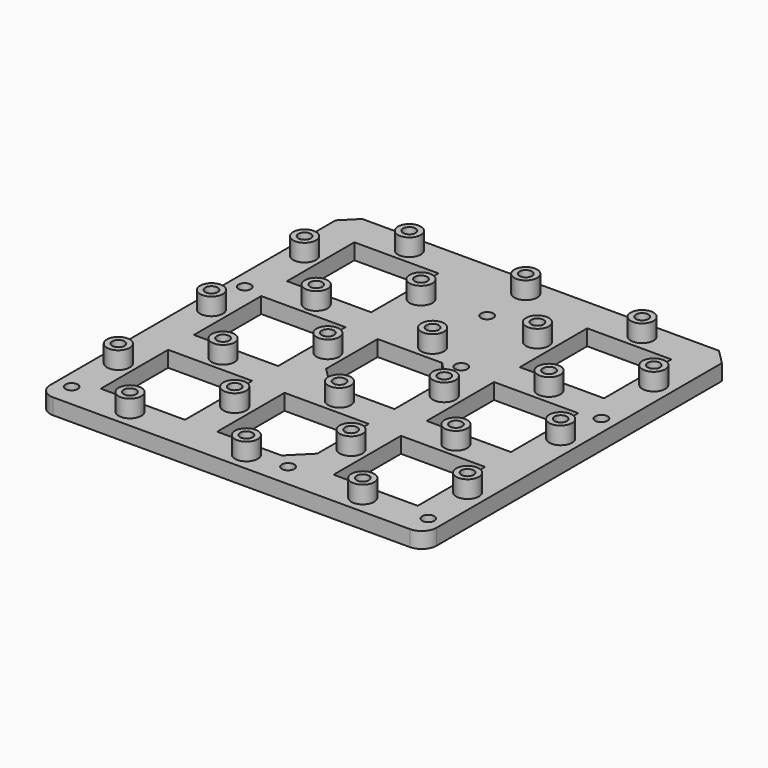
from build123d import *

# Parameters (mm, degrees)
F1_W     = 78
F1_H     = 78
F1_R     = 2.3
F1_R_2   = 1.25
F2_DEPTH = 1.6
F3_W     = 17
F3_H     = 17
F3_R     = 2.3
F3_R_2   = 1.25
F4_DEPTH = 5.1
F5_DEPTH = 10
F6_SIZE  = 3
F7_R     = 3
F8_SIZE  = 4
F9_DEPTH = 12.5


with BuildPart() as f2:
    # F1 (on Top) → F2 (new body, symmetric)
    with BuildSketch(Plane.XY):
        Rectangle(F1_W, F1_H)
        with Locations((-36, -34.35)):
            Circle(F1_R, mode=Mode.SUBTRACT)
        with Locations((7.7, -34.35)):
            Circle(F1_R, mode=Mode.SUBTRACT)
        with Locations((36, -34.35)):
            Circle(F1_R, mode=Mode.SUBTRACT)
        with Locations((-36, 9.35)):
            Circle(F1_R, mode=Mode.SUBTRACT)
        with Locations((7.7, 9.35)):
            Circle(F1_R, mode=Mode.SUBTRACT)
        with Locations((36, 9.35)):
            Circle(F1_R, mode=Mode.SUBTRACT)
        with Locations((0, 25.5)):
            Circle(F1_R_2, mode=Mode.SUBTRACT)
        with Locations((-36, 9.35)):
            Circle(F1_R)
        with Locations((-36, 9.35)):
            Circle(F1_R_2, mode=Mode.SUBTRACT)
        with Locations((36, 9.35)):
            Circle(F1_R)
        with Locations((36, 9.35)):
            Circle(F1_R_2, mode=Mode.SUBTRACT)
        with Locations((36, -34.35)):
            Circle(F1_R)
        with Locations((36, -34.35)):
            Circle(F1_R_2, mode=Mode.SUBTRACT)
        with Locations((-36, -34.35)):
            Circle(F1_R)
        with Locations((-36, -34.35)):
            Circle(F1_R_2, mode=Mode.SUBTRACT)
        with Locations((7.7, 9.35)):
            Circle(F1_R)
        with Locations((7.7, 9.35)):
            Circle(F1_R_2, mode=Mode.SUBTRACT)
        with Locations((7.7, -34.35)):
            Circle(F1_R)
        with Locations((7.7, -34.35)):
            Circle(F1_R_2, mode=Mode.SUBTRACT)
        with Locations((-36, 9.35)):
            Circle(F1_R_2)
        with Locations((7.7, 9.35)):
            Circle(F1_R_2)
        with Locations((36, 9.35)):
            Circle(F1_R_2)
        with Locations((-36, -34.35)):
            Circle(F1_R_2)
        with Locations((7.7, -34.35)):
            Circle(F1_R_2)
        with Locations((36, -34.35)):
            Circle(F1_R_2)
    extrude(amount=F2_DEPTH, both=True)

    # F3 (on Top) → F4 (join)
    with BuildSketch(Plane.XY):
        Rectangle(F3_W, F3_H)
        with Locations((-23.5, 0)):
            Rectangle(F3_W, F3_H)
        with Locations((23.5, 0)):
            Rectangle(F3_W, F3_H)
        with Locations((23.5, 23.5)):
            Rectangle(F3_W, F3_H)
        with Locations((-23.5, -23.5)):
            Rectangle(F3_W, F3_H)
        with Locations((0, -23.5)):
            Rectangle(F3_W, F3_H)
        with Locations((23.5, -23.5)):
            Rectangle(F3_W, F3_H)
        with Locations((-23.5, 23.5)):
            Rectangle(F3_W, F3_H)
        with Locations((-11.75, 0)):
            Circle(F3_R)
        with Locations((-11.75, 0)):
            Circle(F3_R_2, mode=Mode.SUBTRACT)
        with Locations((0, 11.75)):
            Circle(F3_R)
        with Locations((0, 11.75)):
            Circle(F3_R_2, mode=Mode.SUBTRACT)
        with Locations((11.75, 0)):
            Circle(F3_R)
        with Locations((11.75, 0)):
            Circle(F3_R_2, mode=Mode.SUBTRACT)
        with Locations((0, -11.75)):
            Circle(F3_R)
        with Locations((0, -11.75)):
            Circle(F3_R_2, mode=Mode.SUBTRACT)
        with Locations((-11.75, -23.5)):
            Circle(F3_R)
        with Locations((-11.75, -23.5)):
            Circle(F3_R_2, mode=Mode.SUBTRACT)
        with Locations((-35.25, -23.5)):
            Circle(F3_R)
        with Locations((-35.25, -23.5)):
            Circle(F3_R_2, mode=Mode.SUBTRACT)
        with Locations((11.75, -23.5)):
            Circle(F3_R)
        with Locations((11.75, -23.5)):
            Circle(F3_R_2, mode=Mode.SUBTRACT)
        with Locations((35.25, -23.5)):
            Circle(F3_R)
        with Locations((35.25, -23.5)):
            Circle(F3_R_2, mode=Mode.SUBTRACT)
        with Locations((35.25, 0)):
            Circle(F3_R)
        with Locations((35.25, 0)):
            Circle(F3_R_2, mode=Mode.SUBTRACT)
        with Locations((23.5, -11.75)):
            Circle(F3_R)
        with Locations((23.5, -11.75)):
            Circle(F3_R_2, mode=Mode.SUBTRACT)
        with Locations((-23.5, -11.75)):
            Circle(F3_R)
        with Locations((-23.5, -11.75)):
            Circle(F3_R_2, mode=Mode.SUBTRACT)
        with Locations((-35.25, 0)):
            Circle(F3_R)
        with Locations((-35.25, 0)):
            Circle(F3_R_2, mode=Mode.SUBTRACT)
        with Locations((-35.25, 23.5)):
            Circle(F3_R)
        with Locations((-35.25, 23.5)):
            Circle(F3_R_2, mode=Mode.SUBTRACT)
        with Locations((-23.5, 35.25)):
            Circle(F3_R)
        with Locations((-23.5, 35.25)):
            Circle(F3_R_2, mode=Mode.SUBTRACT)
        with Locations((-23.5, 11.75)):
            Circle(F3_R)
        with Locations((-23.5, 11.75)):
            Circle(F3_R_2, mode=Mode.SUBTRACT)
        with Locations((-11.75, 23.5)):
            Circle(F3_R)
        with Locations((-11.75, 23.5)):
            Circle(F3_R_2, mode=Mode.SUBTRACT)
        with Locations((11.75, 23.5)):
            Circle(F3_R)
        with Locations((11.75, 23.5)):
            Circle(F3_R_2, mode=Mode.SUBTRACT)
        with Locations((35.25, 23.5)):
            Circle(F3_R)
        with Locations((35.25, 23.5)):
            Circle(F3_R_2, mode=Mode.SUBTRACT)
        with Locations((23.5, 11.75)):
            Circle(F3_R)
        with Locations((23.5, 11.75)):
            Circle(F3_R_2, mode=Mode.SUBTRACT)
        with Locations((23.5, 35.25)):
            Circle(F3_R)
        with Locations((23.5, 35.25)):
            Circle(F3_R_2, mode=Mode.SUBTRACT)
        with Locations((0, 35.25)):
            Circle(F3_R)
        with Locations((0, 35.25)):
            Circle(F3_R_2, mode=Mode.SUBTRACT)
        with Locations((-23.5, -35.25)):
            Circle(F3_R)
        with Locations((-23.5, -35.25)):
            Circle(F3_R_2, mode=Mode.SUBTRACT)
        with Locations((0, -35.25)):
            Circle(F3_R)
        with Locations((0, -35.25)):
            Circle(F3_R_2, mode=Mode.SUBTRACT)
        with Locations((23.5, -35.25)):
            Circle(F3_R)
        with Locations((23.5, -35.25)):
            Circle(F3_R_2, mode=Mode.SUBTRACT)
    extrude(amount=F4_DEPTH)

    # F3 (on Top) → F5 (cut, symmetric)
    with BuildSketch(Plane.XY):
        with Locations((-23.5, 23.5)):
            Rectangle(F3_W, F3_H)
        with Locations((23.5, 23.5)):
            Rectangle(F3_W, F3_H)
        with Locations((23.5, 0)):
            Rectangle(F3_W, F3_H)
        Rectangle(F3_W, F3_H)
        with Locations((-23.5, 0)):
            Rectangle(F3_W, F3_H)
        with Locations((-23.5, -23.5)):
            Rectangle(F3_W, F3_H)
        with Locations((0, -23.5)):
            Rectangle(F3_W, F3_H)
        with Locations((23.5, -23.5)):
            Rectangle(F3_W, F3_H)
    extrude(amount=F5_DEPTH, both=True, mode=Mode.SUBTRACT)

    # F6
    f6_edges = [f2.edges().sort_by_distance(p)[0] for p in [
        (39, 39, 0),
        (-39, 39, 0),
    ]]
    chamfer(f6_edges, length=F6_SIZE)

    # F7
    f7_edges = [f2.edges().sort_by_distance(p)[0] for p in [
        (-39, -39, 0),
        (39, -39, 0),
    ]]
    fillet(f7_edges, radius=F7_R)

    # F8
    f8_edges = [f2.edges().sort_by_distance(p)[0] for p in [
        (8.5, 8.5, 0),
        (-8.5, -8.5, 0),
        (8.5, -32, 0),
    ]]
    chamfer(f8_edges, length=F8_SIZE)

    # F1 (on Top) → F9 (cut, symmetric)
    with BuildSketch(Plane.XY):
        with Locations((7.7, 9.35)):
            Circle(F1_R_2)
        with Locations((-36, 9.35)):
            Circle(F1_R_2)
        with Locations((-36, -34.35)):
            Circle(F1_R_2)
        with Locations((7.7, -34.35)):
            Circle(F1_R_2)
        with Locations((36, 9.35)):
            Circle(F1_R_2)
        with Locations((36, -34.35)):
            Circle(F1_R_2)
    extrude(amount=F9_DEPTH, both=True, mode=Mode.SUBTRACT)


solid = f2.part
